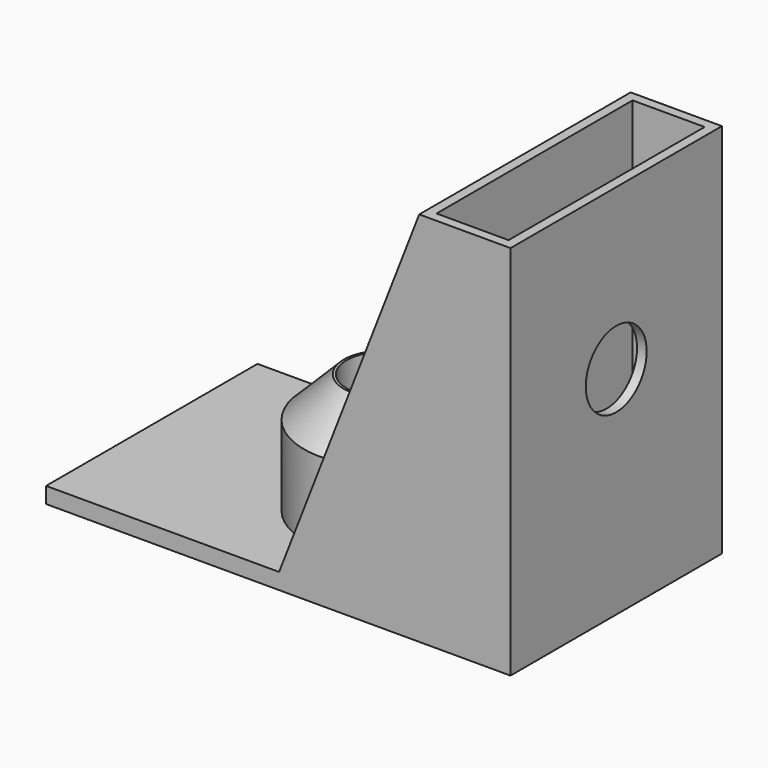
from build123d import *

# Parameters (mm, degrees)
F0_W      = 58
F0_H      = 33
F1_DEPTH  = 2
F2_R      = 10
F3_DEPTH  = 15
F4_R      = 4.7
F5_DEPTH  = 14
F6_W      = 12
F6_H      = 1.5
F7_DEPTH  = 34.5
F8_W      = 1.2
F8_H      = 33
F9_DEPTH  = 45
F10_R     = 4.75
F11_DEPTH = 20
F12_W     = 1.2
F12_H     = 33
F13_DEPTH = 45
F14_R     = 9.6
F15_DEPTH = 10
F17_DEPTH = 1.2
F19_DEPTH = 1.2
F20_W     = 9
F20_H     = 45
F21_DEPTH = 1.2
F22_W     = 9
F22_H     = 45
F23_DEPTH = 1.2
F24_SIZE  = 5


with BuildPart() as f1:
    # F0 (on Top) → F1 (new body)
    with BuildSketch(Plane.XY):
        with Locations((29, 16.5)):
            Rectangle(F0_W, F0_H)
    extrude(amount=F1_DEPTH)

    # F2 (on face) → F3 (join)
    with BuildSketch(Plane.XY.offset(2)):
        with Locations((29, 16.5)):
            Circle(F2_R)
    extrude(amount=F3_DEPTH)

    # F4 (on face) → F5 (cut)
    with BuildSketch(Plane.XY.offset(17)):
        with Locations((29, 16.5)):
            Circle(F4_R)
    extrude(amount=-F5_DEPTH, mode=Mode.SUBTRACT)

    # F6 (on Right) → F7 (cut)
    with BuildSketch(Plane.YZ):
        with Locations((15.833333, 7.95)):
            Rectangle(F6_W, F6_H)
    extrude(amount=F7_DEPTH, mode=Mode.SUBTRACT)

    # F8 (on face) → F9 (join)
    with BuildSketch(Plane.XY.offset(2)):
        with Locations((57.4, 16.5)):
            Rectangle(F8_W, F8_H)
    extrude(amount=F9_DEPTH)

    # F10 (on face) → F11 (cut)
    with BuildSketch(Plane.YZ.offset(58)):
        with Locations((16.5, 27)):
            Circle(F10_R)
    extrude(amount=-F11_DEPTH, mode=Mode.SUBTRACT)

    # F12 (on face) → F13 (join)
    with BuildSketch(Plane.XY.offset(2)):
        with Locations((47.2, 16.5)):
            Rectangle(F12_W, F12_H)
    extrude(amount=F13_DEPTH)

    # F14 (on face) → F15 (cut)
    with BuildSketch(Plane.YZ.offset(47.8)):
        with Locations((16.5, 27)):
            Circle(F14_R)
    extrude(amount=-F15_DEPTH, mode=Mode.SUBTRACT)

    # F16 (on Front) → F17 (join)
    with BuildSketch(Plane.XZ):
        Polygon((46.6, 2), (46.6, 47), (29.1, 2), align=None)
    extrude(amount=-F17_DEPTH)

    # F18 (on face) → F19 (join)
    with BuildSketch(Plane(origin=(0, 33, 0), x_dir=(-1, 0, 0), z_dir=(0, 1, 0))):
        Polygon((-29, 2), (-46.6, 47), (-46.6, 2), align=None)
    extrude(amount=-F19_DEPTH)

    # F20 (on Front) → F21 (join)
    with BuildSketch(Plane.XZ):
        with Locations((52.3, 24.5)):
            Rectangle(F20_W, F20_H)
    extrude(amount=-F21_DEPTH)

    # F22 (on face) → F23 (join)
    with BuildSketch(Plane(origin=(0, 33, 0), x_dir=(-1, 0, 0), z_dir=(0, 1, 0))):
        with Locations((-52.3, 24.5)):
            Rectangle(F22_W, F22_H)
    extrude(amount=-F23_DEPTH)

    # F24
    f24_edges = [f1.edges().sort_by_distance(p)[0] for p in [
        (19, 16.5, 17),
    ]]
    chamfer(f24_edges, length=F24_SIZE)


solid = f1.part
